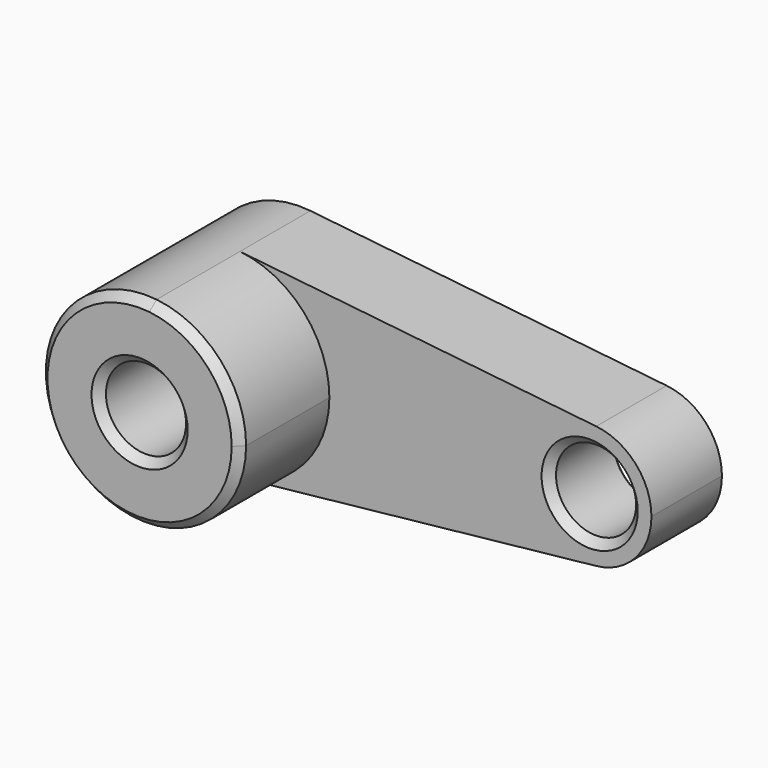
from build123d import *

# Parameters (mm, degrees)
F0_R     = 10
F2_DEPTH = 22
F3_DEPTH = 50
F4_SIZE  = 2


with BuildPart() as f2:
    # F0 (on Front) → F2 (new body)
    with BuildSketch(Plane.XZ):
        with BuildLine():
            ThreePointArc((2.656511, -24.858458), (18.593181, -16.71208), (25, 0))
            ThreePointArc((25, 0), (18.593181, 16.71208), (2.656511, 24.858458))
            ThreePointArc((2.656511, 24.858458), (-25, 0), (2.656511, -24.858458))
        make_face()
        Circle(F0_R, mode=Mode.SUBTRACT)
        with BuildLine():
            ThreePointArc((2.656511, 24.858458), (18.593181, 16.71208), (25, 0))
            ThreePointArc((25, 0), (18.593181, -16.71208), (2.656511, -24.858458))
            Line((2.656511, -24.858458), (91.640296, -15.349164))
            ThreePointArc((91.640296, -15.349164), (74.563439, 0), (91.640296, 15.349164))
            Line((91.640296, 15.349164), (2.656511, 24.858458))
        make_face()
        with BuildLine():
            ThreePointArc((105.436561, 0), (101.480591, 10.319081), (91.640296, 15.349164))
            ThreePointArc((91.640296, 15.349164), (74.563439, 0), (91.640296, -15.349164))
            ThreePointArc((91.640296, -15.349164), (101.480591, -10.319081), (105.436561, 0))
        make_face()
        with Locations((90, 0)):
            Circle(F0_R, mode=Mode.SUBTRACT)
    extrude(amount=F2_DEPTH)

    # F0 (on Front) → F3 (join)
    with BuildSketch(Plane.XZ):
        with BuildLine():
            ThreePointArc((2.656511, -24.858458), (18.593181, -16.71208), (25, 0))
            ThreePointArc((25, 0), (18.593181, 16.71208), (2.656511, 24.858458))
            ThreePointArc((2.656511, 24.858458), (-25, 0), (2.656511, -24.858458))
        make_face()
        Circle(F0_R, mode=Mode.SUBTRACT)
    extrude(amount=F3_DEPTH)

    # F4
    f4_edges = [f2.edges().sort_by_distance(p)[0] for p in [
        (80, -22, 0),
        (-10, -50, 0),
        (-2.656511, -50, 24.858458),
        (80, 0, 0),
        (-10, 0, 0),
    ]]
    chamfer(f4_edges, length=F4_SIZE)


solid = f2.part
